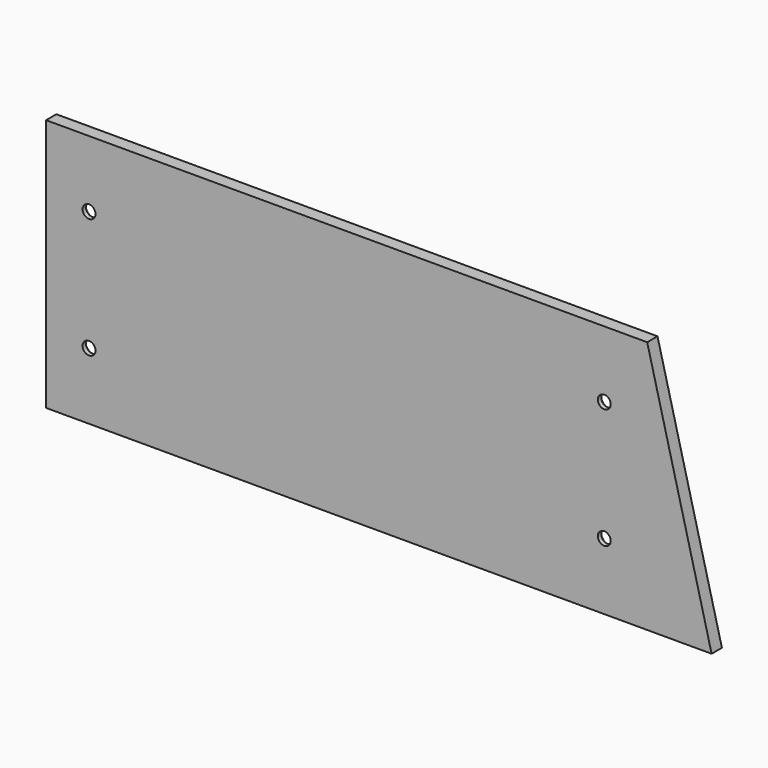
from build123d import *

# Parameters (mm, degrees)
F0_W     = 140
F0_H     = 59
F1_DEPTH = 3
F2_R     = 1.5
F3_DEPTH = 25
F4_SIZE  = 2


with BuildPart() as f1:
    # F0 (on Front) → F1 (new body)
    with BuildSketch(Plane.XZ):
        Rectangle(F0_W, F0_H)
        Polygon((85, -29.5), (70, 29.5), (70, -29.5), align=None)
    extrude(amount=F1_DEPTH)

    # F2 (on face) → F3 (cut)
    with BuildSketch(Plane.XZ.offset(3)):
        with Locations((-60, 14)):
            Circle(F2_R)
        with Locations((60, 14)):
            Circle(F2_R)
        with Locations((60, -14)):
            Circle(F2_R)
        with Locations((-60, -14)):
            Circle(F2_R)
    extrude(amount=-F3_DEPTH, mode=Mode.SUBTRACT)

    # F4
    f4_edges = [f1.edges().sort_by_distance(p)[0] for p in [
        (-61.5, 0, -14),
        (-61.5, 0, 14),
        (58.5, 0, -14),
        (58.5, 0, 14),
    ]]
    chamfer(f4_edges, length=F4_SIZE)


solid = f1.part
